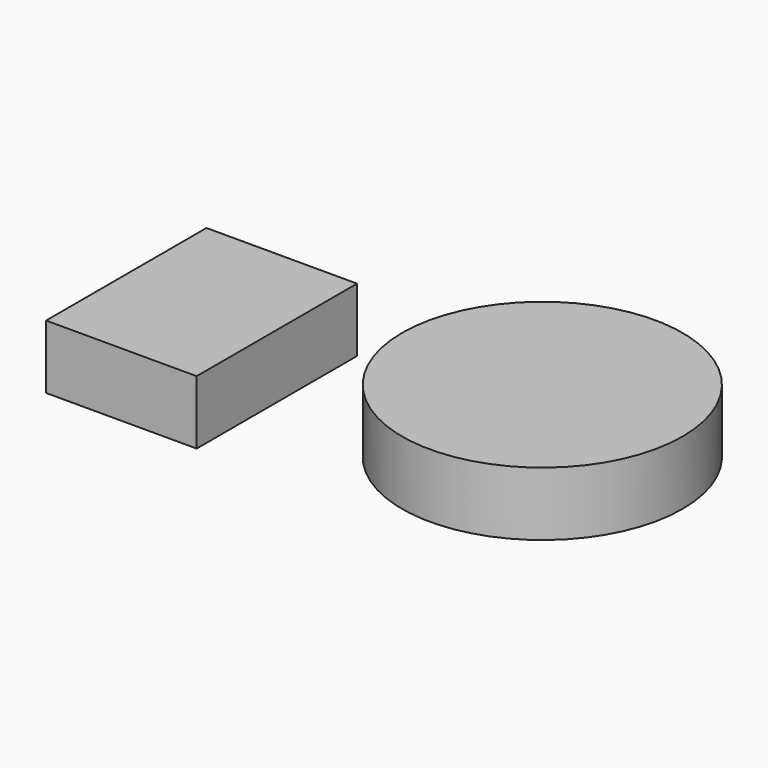
from build123d import *

# Parameters (mm, degrees)
F0_W     = 59.983559
F0_H     = 79.858001
F0_R     = 55.878046
F1_DEPTH = 25.4


with BuildPart() as f1:
    # F0 (on Top) → F1 (new body)
    with BuildSketch(Plane.XY):
        with Locations((-106.101285, -4.012847)):
            Rectangle(F0_W, F0_H)
        with Locations((11.438388, 18.746784)):
            Circle(F0_R)
    extrude(amount=F1_DEPTH)


solid = f1.part
